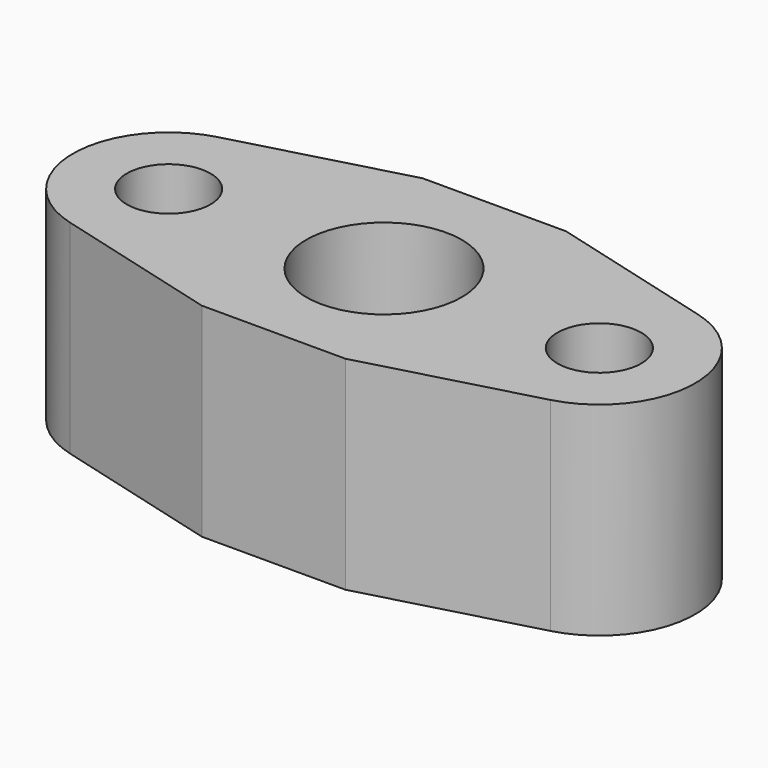
from build123d import *

# Parameters (mm, degrees)
F1_R     = 1.75
F1_R_2   = 3.25
F2_DEPTH = 4.25


with BuildPart() as f2:
    # F1 (on Top) → F2 (new body, symmetric)
    with BuildSketch(Plane.XY):
        with BuildLine():
            Line((-3, 5.765), (-10.0435650822, 3.8614727656))
            ThreePointArc((-10.0435650822, 3.8614727656), (-13, 0), (-10.0435650822, -3.8614727656))
            Line((-10.0435650822, -3.8614727656), (-3, -5.765))
            Line((-3, -5.765), (3, -5.765))
            Line((3, -5.765), (10.0435650822, -3.8614727656))
            ThreePointArc((10.0435650822, -3.8614727656), (13, 0), (10.0435650822, 3.8614727656))
            Line((10.0435650822, 3.8614727656), (3, 5.765))
            Line((3, 5.765), (-3, 5.765))
        make_face()
        with Locations((-9, 0)):
            Circle(F1_R, mode=Mode.SUBTRACT)
        Circle(F1_R_2, mode=Mode.SUBTRACT)
        with Locations((9, 0)):
            Circle(F1_R, mode=Mode.SUBTRACT)
    extrude(amount=F2_DEPTH, both=True)


solid = f2.part
